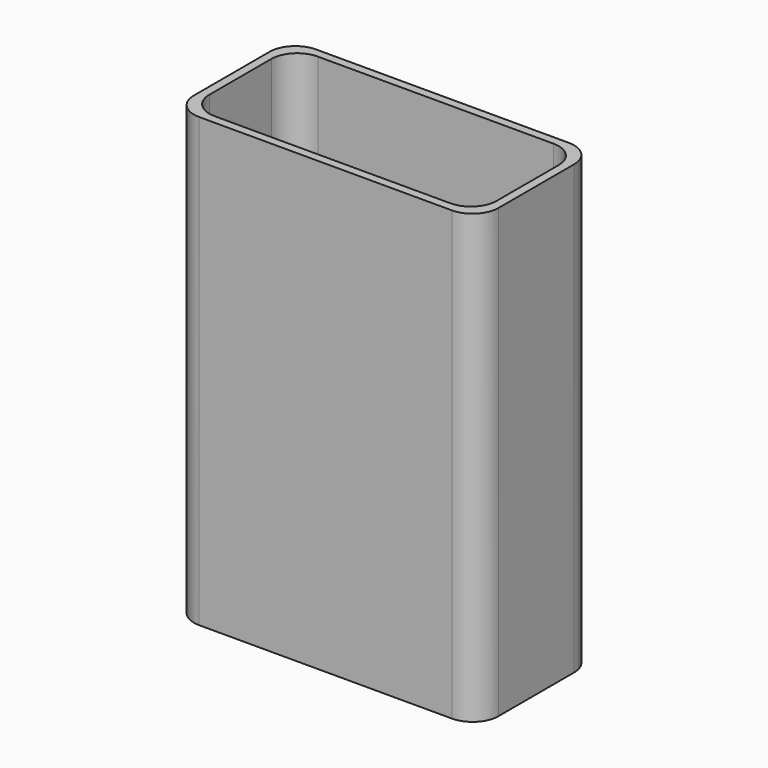
from build123d import *

# Parameters (mm, degrees)
F1_DEPTH = 52
F2_W     = 5
F2_H     = 4
F3_DEPTH = 52.001


with BuildPart() as f1:
    # F0 (on Top) → F1 (new body)
    with BuildSketch(Plane.XY):
        with BuildLine():
            Line((-14.7, -8.5), (14.7, -8.5))
            ThreePointArc((14.7, -8.5), (16.82132, -7.62132), (17.7, -5.5))
            Line((17.7, -5.5), (17.7, 5.5))
            ThreePointArc((17.7, 5.5), (16.82132, 7.62132), (14.7, 8.5))
            Line((14.7, 8.5), (-14.7, 8.5))
            ThreePointArc((-14.7, 8.5), (-16.82132, 7.62132), (-17.7, 5.5))
            Line((-17.7, 5.5), (-17.7, -5.5))
            ThreePointArc((-17.7, -5.5), (-16.82132, -7.62132), (-14.7, -8.5))
        make_face()
        with BuildLine():
            Line((-13.7, 7.5), (13.7, 7.5))
            ThreePointArc((13.7, 7.5), (15.82132, 6.62132), (16.7, 4.5))
            Line((16.7, 4.5), (16.7, -4.5))
            ThreePointArc((16.7, -4.5), (15.82132, -6.62132), (13.7, -7.5))
            Line((13.7, -7.5), (-13.7, -7.5))
            ThreePointArc((-13.7, -7.5), (-15.82132, -6.62132), (-16.7, -4.5))
            Line((-16.7, -4.5), (-16.7, 4.5))
            ThreePointArc((-16.7, 4.5), (-15.82132, 6.62132), (-13.7, 7.5))
        make_face(mode=Mode.SUBTRACT)
    extrude(amount=F1_DEPTH)

    # F2 (on face) → F3 (cut, through all)
    with BuildSketch(Plane(origin=(0, 0, 0), x_dir=(1, 0, 0), z_dir=(0, 0, -1))):
        with Locations((2.2, 0)):
            Rectangle(F2_W, F2_H)
    extrude(amount=-F3_DEPTH, mode=Mode.SUBTRACT)


solid = f1.part
